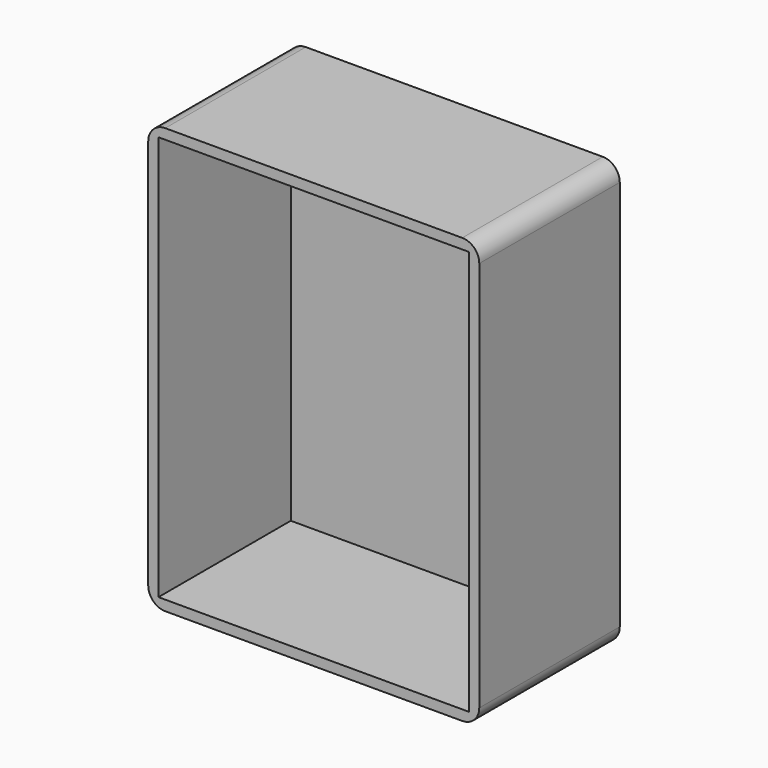
from build123d import *

# Parameters (mm, degrees)
F0_W     = 97.2947403789
F0_H     = 51.6190975904
F1_DEPTH = 25
F2_DEPTH = 100
F3_W     = 91.2947403789
F3_H     = 119
F4_DEPTH = 48.6190975904
F5_R     = 5


with BuildPart() as f1:
    # F0 (on Top) → F1 (new body)
    with BuildSketch(Plane.XY):
        with Locations((48.6473701894, -25.8095487952)):
            Rectangle(F0_W, F0_H)
    extrude(amount=F1_DEPTH)

    # F2 (add): a face of the model
    f2_faces = [f1.faces().sort_by_distance(p)[0] for p in [
        (48.6473701894, -25.8095487952, 25),
    ]]
    extrude(f2_faces, amount=F2_DEPTH)

    # F3 (on face) → F4 (cut, through all)
    with BuildSketch(Plane.XZ.offset(51.6190975904)):
        with Locations((48.6473701894, 62.5)):
            Rectangle(F3_W, F3_H)
    extrude(amount=-F4_DEPTH, mode=Mode.SUBTRACT)

    # F5
    f5_edges = [f1.edges().sort_by_distance(p)[0] for p in [
        (97.29474, -25.809549, 125),
        (0, -25.809549, 125),
        (0, -25.809549, 0),
        (97.29474, -25.809549, 0),
    ]]
    fillet(f5_edges, radius=F5_R)


solid = f1.part
